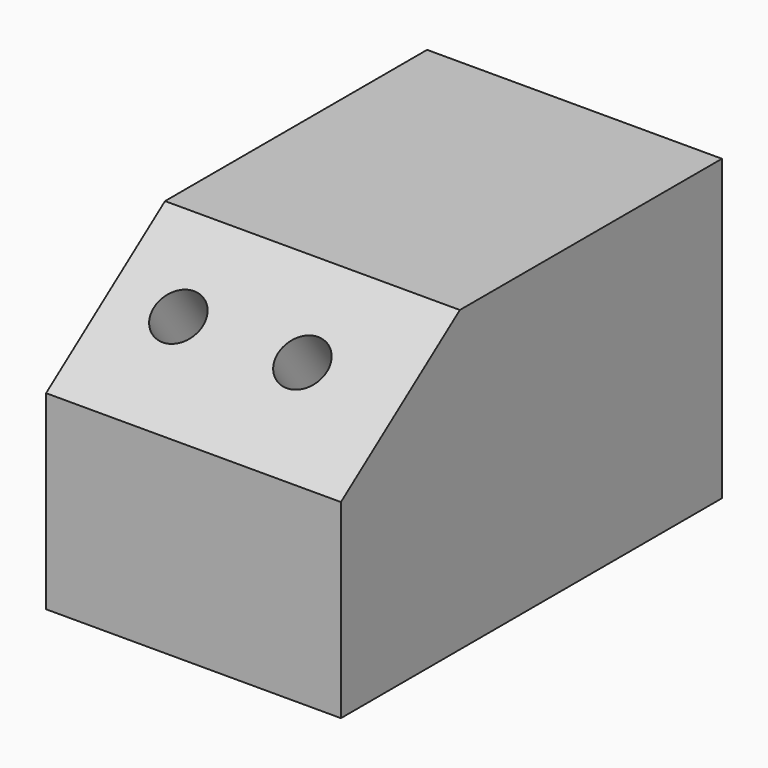
from build123d import *

# Parameters (mm, degrees)
F1_DEPTH = 114.3
F3_D     = 19.05
F3_DEPTH = 50.8
F3_TIP   = 5.7231973962


with BuildPart() as f1:
    # F0 (on Right) → F1 (new body)
    with BuildSketch(Plane.YZ):
        Polygon((127, 0), (0, 0), (-57.6322190464, -42.119871825), (-57.6322190464, -115.8806011081), (127, -115.8806011081), align=None)
    extrude(amount=F1_DEPTH)

    # F3
    with Locations(Plane(origin=(0, 0, 0), x_dir=(1, 0, 0), z_dir=(0, -0.5900532948, 0.8073642977))):
        with Locations((74.9021172523, -33.4962010384), (26.8135797232, -33.4962010384)):
            Hole(F3_D / 2, depth=F3_DEPTH)
            with Locations((0, 0, -(F3_DEPTH + F3_TIP / 2))):  # 118° drill point
                Cone(0, F3_D / 2, F3_TIP, mode=Mode.SUBTRACT)


solid = f1.part
